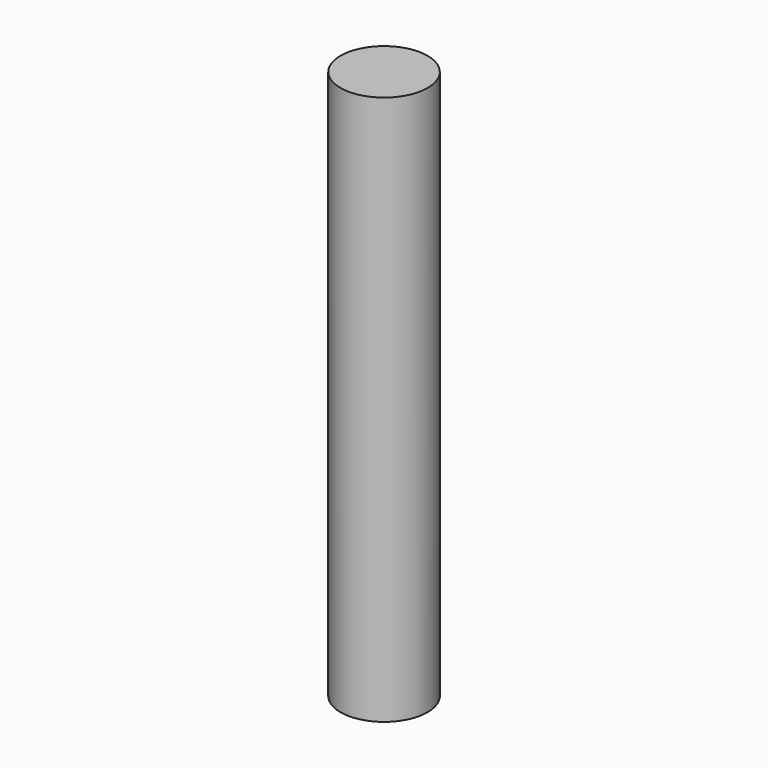
from build123d import *

# Parameters (mm, degrees)
F0_R     = 5.9839795407
F1_DEPTH = 75.4676833749


with BuildPart() as f1:
    # F0 (on Top) → F1 (new body)
    with BuildSketch(Plane.XY):
        with Locations((29.0320143104, -12.9426717758)):
            Circle(F0_R)
    extrude(amount=-F1_DEPTH)


solid = f1.part
